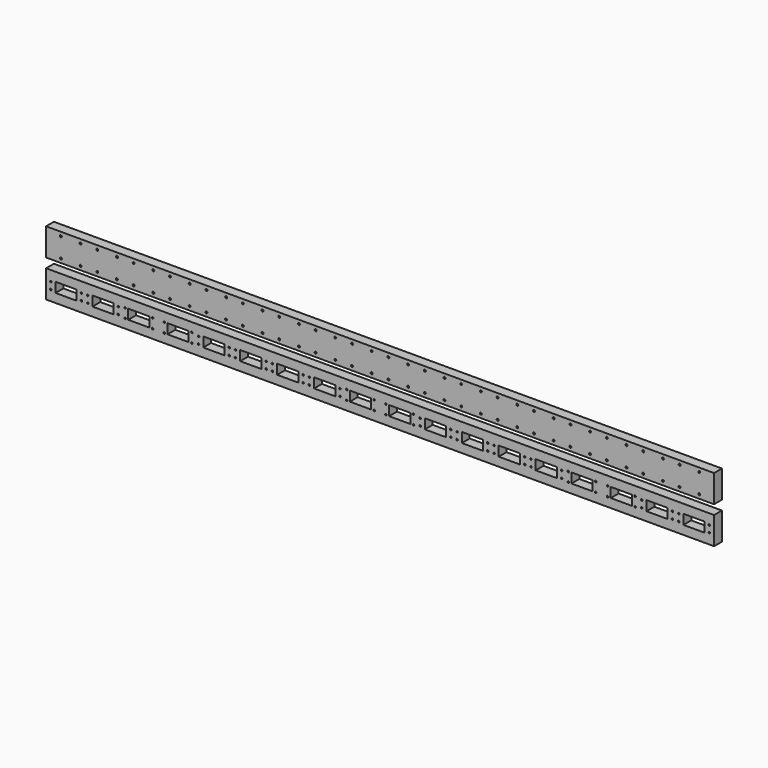
from build123d import *

# Parameters (mm, degrees)
F0_W     = 1700
F0_H     = 70
F0_R     = 2.5
F1_DEPTH = 25
F2_W     = 1700
F2_H     = 70
F2_R     = 2
F2_W_2   = 54
F2_H_2   = 25
F3_DEPTH = 25


with BuildPart() as f1:
    # F0 (on Front) → F1 (new body)
    with BuildSketch(Plane.XZ):
        with Locations((850, 35)):
            Rectangle(F0_W, F0_H)
        with Locations((37.63, 10)):
            Circle(F0_R, mode=Mode.SUBTRACT)
        with Locations((87.63, 10)):
            Circle(F0_R, mode=Mode.SUBTRACT)
        with Locations((130.26, 10)):
            Circle(F0_R, mode=Mode.SUBTRACT)
        with Locations((180.26, 10)):
            Circle(F0_R, mode=Mode.SUBTRACT)
        with Locations((222.89, 10)):
            Circle(F0_R, mode=Mode.SUBTRACT)
        with Locations((272.89, 10)):
            Circle(F0_R, mode=Mode.SUBTRACT)
        with Locations((315.52, 10)):
            Circle(F0_R, mode=Mode.SUBTRACT)
        with Locations((365.52, 10)):
            Circle(F0_R, mode=Mode.SUBTRACT)
        with Locations((408.15, 10)):
            Circle(F0_R, mode=Mode.SUBTRACT)
        with Locations((458.15, 10)):
            Circle(F0_R, mode=Mode.SUBTRACT)
        with Locations((500.78, 10)):
            Circle(F0_R, mode=Mode.SUBTRACT)
        with Locations((550.78, 10)):
            Circle(F0_R, mode=Mode.SUBTRACT)
        with Locations((593.41, 10)):
            Circle(F0_R, mode=Mode.SUBTRACT)
        with Locations((643.41, 10)):
            Circle(F0_R, mode=Mode.SUBTRACT)
        with Locations((686.04, 10)):
            Circle(F0_R, mode=Mode.SUBTRACT)
        with Locations((736.04, 10)):
            Circle(F0_R, mode=Mode.SUBTRACT)
        with Locations((778.67, 10)):
            Circle(F0_R, mode=Mode.SUBTRACT)
        with Locations((828.67, 10)):
            Circle(F0_R, mode=Mode.SUBTRACT)
        with Locations((871.3, 10)):
            Circle(F0_R, mode=Mode.SUBTRACT)
        with Locations((921.3, 10)):
            Circle(F0_R, mode=Mode.SUBTRACT)
        with Locations((963.93, 10)):
            Circle(F0_R, mode=Mode.SUBTRACT)
        with Locations((1013.93, 10)):
            Circle(F0_R, mode=Mode.SUBTRACT)
        with Locations((1056.56, 10)):
            Circle(F0_R, mode=Mode.SUBTRACT)
        with Locations((1106.56, 10)):
            Circle(F0_R, mode=Mode.SUBTRACT)
        with Locations((1149.19, 10)):
            Circle(F0_R, mode=Mode.SUBTRACT)
        with Locations((1199.19, 10)):
            Circle(F0_R, mode=Mode.SUBTRACT)
        with Locations((1241.82, 10)):
            Circle(F0_R, mode=Mode.SUBTRACT)
        with Locations((1291.82, 10)):
            Circle(F0_R, mode=Mode.SUBTRACT)
        with Locations((1334.45, 10)):
            Circle(F0_R, mode=Mode.SUBTRACT)
        with Locations((1384.45, 10)):
            Circle(F0_R, mode=Mode.SUBTRACT)
        with Locations((1427.08, 10)):
            Circle(F0_R, mode=Mode.SUBTRACT)
        with Locations((1477.08, 10)):
            Circle(F0_R, mode=Mode.SUBTRACT)
        with Locations((1519.71, 10)):
            Circle(F0_R, mode=Mode.SUBTRACT)
        with Locations((1569.71, 10)):
            Circle(F0_R, mode=Mode.SUBTRACT)
        with Locations((1612.34, 10)):
            Circle(F0_R, mode=Mode.SUBTRACT)
        with Locations((1662.34, 10)):
            Circle(F0_R, mode=Mode.SUBTRACT)
        with Locations((37.63, 60)):
            Circle(F0_R, mode=Mode.SUBTRACT)
        with Locations((87.63, 60)):
            Circle(F0_R, mode=Mode.SUBTRACT)
        with Locations((130.26, 60)):
            Circle(F0_R, mode=Mode.SUBTRACT)
        with Locations((180.26, 60)):
            Circle(F0_R, mode=Mode.SUBTRACT)
        with Locations((222.89, 60)):
            Circle(F0_R, mode=Mode.SUBTRACT)
        with Locations((272.89, 60)):
            Circle(F0_R, mode=Mode.SUBTRACT)
        with Locations((315.52, 60)):
            Circle(F0_R, mode=Mode.SUBTRACT)
        with Locations((365.52, 60)):
            Circle(F0_R, mode=Mode.SUBTRACT)
        with Locations((408.15, 60)):
            Circle(F0_R, mode=Mode.SUBTRACT)
        with Locations((458.15, 60)):
            Circle(F0_R, mode=Mode.SUBTRACT)
        with Locations((500.78, 60)):
            Circle(F0_R, mode=Mode.SUBTRACT)
        with Locations((550.78, 60)):
            Circle(F0_R, mode=Mode.SUBTRACT)
        with Locations((593.41, 60)):
            Circle(F0_R, mode=Mode.SUBTRACT)
        with Locations((643.41, 60)):
            Circle(F0_R, mode=Mode.SUBTRACT)
        with Locations((686.04, 60)):
            Circle(F0_R, mode=Mode.SUBTRACT)
        with Locations((736.04, 60)):
            Circle(F0_R, mode=Mode.SUBTRACT)
        with Locations((778.67, 60)):
            Circle(F0_R, mode=Mode.SUBTRACT)
        with Locations((828.67, 60)):
            Circle(F0_R, mode=Mode.SUBTRACT)
        with Locations((871.3, 60)):
            Circle(F0_R, mode=Mode.SUBTRACT)
        with Locations((921.3, 60)):
            Circle(F0_R, mode=Mode.SUBTRACT)
        with Locations((963.93, 60)):
            Circle(F0_R, mode=Mode.SUBTRACT)
        with Locations((1013.93, 60)):
            Circle(F0_R, mode=Mode.SUBTRACT)
        with Locations((1056.56, 60)):
            Circle(F0_R, mode=Mode.SUBTRACT)
        with Locations((1106.56, 60)):
            Circle(F0_R, mode=Mode.SUBTRACT)
        with Locations((1149.19, 60)):
            Circle(F0_R, mode=Mode.SUBTRACT)
        with Locations((1199.19, 60)):
            Circle(F0_R, mode=Mode.SUBTRACT)
        with Locations((1241.82, 60)):
            Circle(F0_R, mode=Mode.SUBTRACT)
        with Locations((1291.82, 60)):
            Circle(F0_R, mode=Mode.SUBTRACT)
        with Locations((1334.45, 60)):
            Circle(F0_R, mode=Mode.SUBTRACT)
        with Locations((1384.45, 60)):
            Circle(F0_R, mode=Mode.SUBTRACT)
        with Locations((1427.08, 60)):
            Circle(F0_R, mode=Mode.SUBTRACT)
        with Locations((1477.08, 60)):
            Circle(F0_R, mode=Mode.SUBTRACT)
        with Locations((1519.71, 60)):
            Circle(F0_R, mode=Mode.SUBTRACT)
        with Locations((1569.71, 60)):
            Circle(F0_R, mode=Mode.SUBTRACT)
        with Locations((1612.34, 60)):
            Circle(F0_R, mode=Mode.SUBTRACT)
        with Locations((1662.34, 60)):
            Circle(F0_R, mode=Mode.SUBTRACT)
    extrude(amount=F1_DEPTH)


with BuildPart() as f3:
    # F2 (on Front) → F3 (new body)
    with BuildSketch(Plane.XZ):
        with Locations((850, -59.063351)):
            Rectangle(F2_W, F2_H)
        with Locations((201, -71.063351)):
            Circle(F2_R, mode=Mode.SUBTRACT)
        with Locations((271, -71.063351)):
            Circle(F2_R, mode=Mode.SUBTRACT)
        with Locations((301, -71.063351)):
            Circle(F2_R, mode=Mode.SUBTRACT)
        with Locations((371, -71.063351)):
            Circle(F2_R, mode=Mode.SUBTRACT)
        with Locations((12, -67.813351)):
            Circle(F2_R, mode=Mode.SUBTRACT)
        with Locations((90, -67.813351)):
            Circle(F2_R, mode=Mode.SUBTRACT)
        with Locations((106, -67.813351)):
            Circle(F2_R, mode=Mode.SUBTRACT)
        with Locations((184, -67.813351)):
            Circle(F2_R, mode=Mode.SUBTRACT)
        with Locations((388, -67.813351)):
            Circle(F2_R, mode=Mode.SUBTRACT)
        with Locations((765, -71.063351)):
            Circle(F2_R, mode=Mode.SUBTRACT)
        with Locations((835, -71.063351)):
            Circle(F2_R, mode=Mode.SUBTRACT)
        with Locations((466, -67.813351)):
            Circle(F2_R, mode=Mode.SUBTRACT)
        with Locations((482, -67.813351)):
            Circle(F2_R, mode=Mode.SUBTRACT)
        with Locations((560, -67.813351)):
            Circle(F2_R, mode=Mode.SUBTRACT)
        with Locations((576, -67.813351)):
            Circle(F2_R, mode=Mode.SUBTRACT)
        with Locations((654, -67.813351)):
            Circle(F2_R, mode=Mode.SUBTRACT)
        with Locations((670, -67.813351)):
            Circle(F2_R, mode=Mode.SUBTRACT)
        with Locations((748, -67.813351)):
            Circle(F2_R, mode=Mode.SUBTRACT)
        with Locations((865, -71.063351)):
            Circle(F2_R, mode=Mode.SUBTRACT)
        with Locations((935, -71.063351)):
            Circle(F2_R, mode=Mode.SUBTRACT)
        with Locations((952, -67.813351)):
            Circle(F2_R, mode=Mode.SUBTRACT)
        with Locations((1030, -67.813351)):
            Circle(F2_R, mode=Mode.SUBTRACT)
        with Locations((1046, -67.813351)):
            Circle(F2_R, mode=Mode.SUBTRACT)
        with Locations((1124, -67.813351)):
            Circle(F2_R, mode=Mode.SUBTRACT)
        with Locations((1140, -67.813351)):
            Circle(F2_R, mode=Mode.SUBTRACT)
        with Locations((1218, -67.813351)):
            Circle(F2_R, mode=Mode.SUBTRACT)
        with Locations((1234, -67.813351)):
            Circle(F2_R, mode=Mode.SUBTRACT)
        with Locations((1329, -71.063351)):
            Circle(F2_R, mode=Mode.SUBTRACT)
        with Locations((1399, -71.063351)):
            Circle(F2_R, mode=Mode.SUBTRACT)
        with Locations((1429, -71.063351)):
            Circle(F2_R, mode=Mode.SUBTRACT)
        with Locations((1499, -71.063351)):
            Circle(F2_R, mode=Mode.SUBTRACT)
        with Locations((1312, -67.813351)):
            Circle(F2_R, mode=Mode.SUBTRACT)
        with Locations((1516, -67.813351)):
            Circle(F2_R, mode=Mode.SUBTRACT)
        with Locations((1594, -67.813351)):
            Circle(F2_R, mode=Mode.SUBTRACT)
        with Locations((1610, -67.813351)):
            Circle(F2_R, mode=Mode.SUBTRACT)
        with Locations((1688, -67.813351)):
            Circle(F2_R, mode=Mode.SUBTRACT)
        with Locations((51, -59.063351)):
            Rectangle(F2_W_2, F2_H_2, mode=Mode.SUBTRACT)
        with Locations((145, -59.063351)):
            Rectangle(F2_W_2, F2_H_2, mode=Mode.SUBTRACT)
        with Locations((236, -59.063351)):
            Rectangle(F2_W_2, F2_H_2, mode=Mode.SUBTRACT)
        with Locations((336, -59.063351)):
            Rectangle(F2_W_2, F2_H_2, mode=Mode.SUBTRACT)
        with Locations((12, -50.313351)):
            Circle(F2_R, mode=Mode.SUBTRACT)
        with Locations((90, -50.313351)):
            Circle(F2_R, mode=Mode.SUBTRACT)
        with Locations((106, -50.313351)):
            Circle(F2_R, mode=Mode.SUBTRACT)
        with Locations((184, -50.313351)):
            Circle(F2_R, mode=Mode.SUBTRACT)
        with Locations((201, -47.063351)):
            Circle(F2_R, mode=Mode.SUBTRACT)
        with Locations((271, -47.063351)):
            Circle(F2_R, mode=Mode.SUBTRACT)
        with Locations((301, -47.063351)):
            Circle(F2_R, mode=Mode.SUBTRACT)
        with Locations((388, -50.313351)):
            Circle(F2_R, mode=Mode.SUBTRACT)
        with Locations((371, -47.063351)):
            Circle(F2_R, mode=Mode.SUBTRACT)
        with Locations((427, -59.063351)):
            Rectangle(F2_W_2, F2_H_2, mode=Mode.SUBTRACT)
        with Locations((521, -59.063351)):
            Rectangle(F2_W_2, F2_H_2, mode=Mode.SUBTRACT)
        with Locations((615, -59.063351)):
            Rectangle(F2_W_2, F2_H_2, mode=Mode.SUBTRACT)
        with Locations((709, -59.063351)):
            Rectangle(F2_W_2, F2_H_2, mode=Mode.SUBTRACT)
        with Locations((800, -59.063351)):
            Rectangle(F2_W_2, F2_H_2, mode=Mode.SUBTRACT)
        with Locations((466, -50.313351)):
            Circle(F2_R, mode=Mode.SUBTRACT)
        with Locations((482, -50.313351)):
            Circle(F2_R, mode=Mode.SUBTRACT)
        with Locations((560, -50.313351)):
            Circle(F2_R, mode=Mode.SUBTRACT)
        with Locations((576, -50.313351)):
            Circle(F2_R, mode=Mode.SUBTRACT)
        with Locations((654, -50.313351)):
            Circle(F2_R, mode=Mode.SUBTRACT)
        with Locations((670, -50.313351)):
            Circle(F2_R, mode=Mode.SUBTRACT)
        with Locations((748, -50.313351)):
            Circle(F2_R, mode=Mode.SUBTRACT)
        with Locations((765, -47.063351)):
            Circle(F2_R, mode=Mode.SUBTRACT)
        with Locations((835, -47.063351)):
            Circle(F2_R, mode=Mode.SUBTRACT)
        with Locations((900, -59.063351)):
            Rectangle(F2_W_2, F2_H_2, mode=Mode.SUBTRACT)
        with Locations((991, -59.063351)):
            Rectangle(F2_W_2, F2_H_2, mode=Mode.SUBTRACT)
        with Locations((1085, -59.063351)):
            Rectangle(F2_W_2, F2_H_2, mode=Mode.SUBTRACT)
        with Locations((1179, -59.063351)):
            Rectangle(F2_W_2, F2_H_2, mode=Mode.SUBTRACT)
        with Locations((1273, -59.063351)):
            Rectangle(F2_W_2, F2_H_2, mode=Mode.SUBTRACT)
        with Locations((952, -50.313351)):
            Circle(F2_R, mode=Mode.SUBTRACT)
        with Locations((865, -47.063351)):
            Circle(F2_R, mode=Mode.SUBTRACT)
        with Locations((935, -47.063351)):
            Circle(F2_R, mode=Mode.SUBTRACT)
        with Locations((1030, -50.313351)):
            Circle(F2_R, mode=Mode.SUBTRACT)
        with Locations((1046, -50.313351)):
            Circle(F2_R, mode=Mode.SUBTRACT)
        with Locations((1124, -50.313351)):
            Circle(F2_R, mode=Mode.SUBTRACT)
        with Locations((1140, -50.313351)):
            Circle(F2_R, mode=Mode.SUBTRACT)
        with Locations((1218, -50.313351)):
            Circle(F2_R, mode=Mode.SUBTRACT)
        with Locations((1234, -50.313351)):
            Circle(F2_R, mode=Mode.SUBTRACT)
        with Locations((1364, -59.063351)):
            Rectangle(F2_W_2, F2_H_2, mode=Mode.SUBTRACT)
        with Locations((1464, -59.063351)):
            Rectangle(F2_W_2, F2_H_2, mode=Mode.SUBTRACT)
        with Locations((1555, -59.063351)):
            Rectangle(F2_W_2, F2_H_2, mode=Mode.SUBTRACT)
        with Locations((1649, -59.063351)):
            Rectangle(F2_W_2, F2_H_2, mode=Mode.SUBTRACT)
        with Locations((1312, -50.313351)):
            Circle(F2_R, mode=Mode.SUBTRACT)
        with Locations((1329, -47.063351)):
            Circle(F2_R, mode=Mode.SUBTRACT)
        with Locations((1399, -47.063351)):
            Circle(F2_R, mode=Mode.SUBTRACT)
        with Locations((1429, -47.063351)):
            Circle(F2_R, mode=Mode.SUBTRACT)
        with Locations((1516, -50.313351)):
            Circle(F2_R, mode=Mode.SUBTRACT)
        with Locations((1499, -47.063351)):
            Circle(F2_R, mode=Mode.SUBTRACT)
        with Locations((1594, -50.313351)):
            Circle(F2_R, mode=Mode.SUBTRACT)
        with Locations((1610, -50.313351)):
            Circle(F2_R, mode=Mode.SUBTRACT)
        with Locations((1688, -50.313351)):
            Circle(F2_R, mode=Mode.SUBTRACT)
    extrude(amount=F3_DEPTH)


solid = Compound([f1.part, f3.part])
